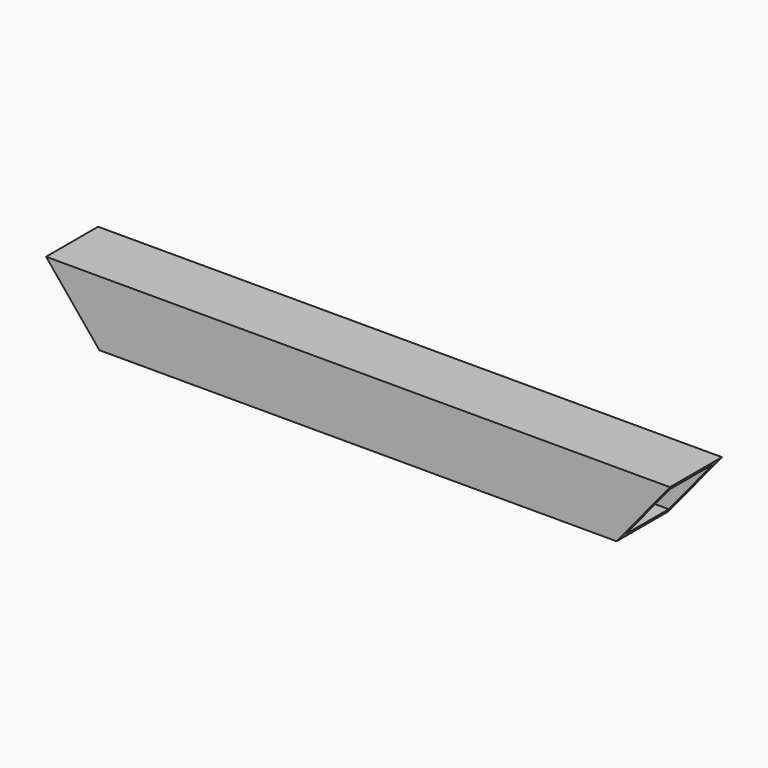
from build123d import *

# Parameters (mm, degrees)
SKETCH_W       = 31.75
SKETCH_H       = 31.75
SKETCH_W_2     = 26.2128
SKETCH_H_2     = 26.2128
PAD_DEPTH      = 152.4
PAD_DEPTH_BACK = 152.4
POCKET_DEPTH   = 31.75


with BuildPart() as part:
    # Sketch → Pad (new body, two sides)
    with BuildSketch(Plane.YZ) as pad_sk:
        Rectangle(SKETCH_W, SKETCH_H)
        Rectangle(SKETCH_W_2, SKETCH_H_2, mode=Mode.SUBTRACT)
    extrude(amount=PAD_DEPTH)
    extrude(pad_sk.sketch, amount=-PAD_DEPTH_BACK)

    # Sketch001 → Pocket (cut)
    with BuildSketch(Plane(origin=(0, -15.875, 0), x_dir=(0, 0, -1), z_dir=(0, -1, 0))):
        Polygon((-15.875, 152.4), (15.875, 152.4), (15.875, 126.371257), align=None)
    pocket = extrude(amount=-POCKET_DEPTH, mode=Mode.SUBTRACT)

    # Mirrored: Pocket across Sketch001 H_Axis
    add(pocket.mirror(Plane(origin=(0, -15.875, 0), x_dir=(0, -1, 0), z_dir=(1, 0, 0))), mode=Mode.SUBTRACT)


solid = part.part
